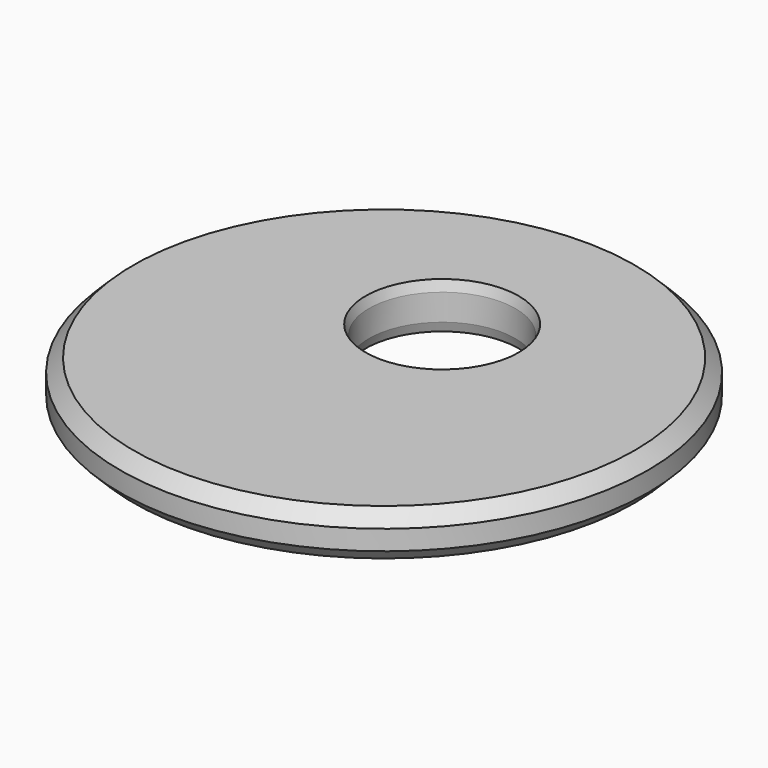
from build123d import *

# Parameters (mm, degrees)
F0_R     = 40
F0_R_2   = 11.1
F1_DEPTH = 7
F2_SIZE  = 2
F3_SIZE2 = 1.5
F3_SIZE  = 0.5


with BuildPart() as f1:
    # F0 (on Top) → F1 (new body)
    with BuildSketch(Plane.XY):
        Circle(F0_R)
        with Locations((0, 11)):
            Circle(F0_R_2, mode=Mode.SUBTRACT)
    extrude(amount=F1_DEPTH)

    # F2
    f2_edges = [f1.edges().sort_by_distance(p)[0] for p in [
        (-40, 0, 7),
        (-40, 0, 0),
    ]]
    chamfer(f2_edges, length=F2_SIZE)

    # F3
    f3_edges = [f1.edges().sort_by_distance(p)[0] for p in [
        (-11.1, 11, 0),
        (-11.1, 11, 7),
    ]]
    chamfer(f3_edges, length=F3_SIZE, length2=F3_SIZE2)


solid = f1.part
